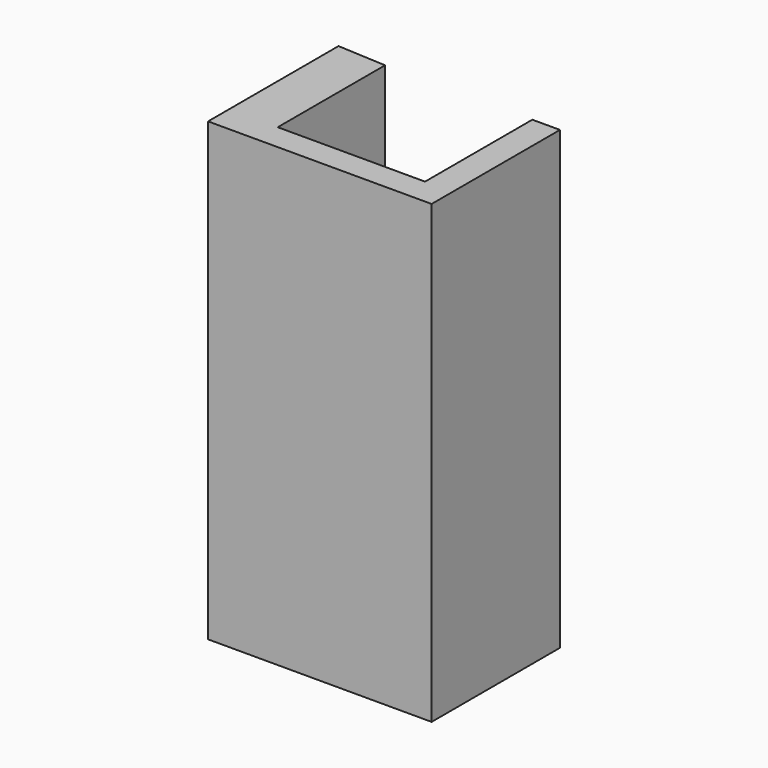
from build123d import *

# Parameters (mm, degrees)
F1_DEPTH = 155.702
F3_DEPTH = 25.4


with BuildPart() as f1:
    # F0 (on Top) → F1 (new body)
    with BuildSketch(Plane.XY):
        Polygon((-35.026107, 29.188428), (-51.641054, 30.086534), (-51.641054, -25.595998), (24.6979, -25.595998), (24.6979, 29.188428), (15.267792, 29.188428), (15.267792, -16.614946), (-35.026107, -16.614946), align=None)
    extrude(amount=F1_DEPTH)

    # F2 (on face) → F3 (join)
    with BuildSketch(Plane(origin=(15.267792, 0, 0), x_dir=(0, -1, 0), z_dir=(-1, 0, 0))):
        Polygon((0, 139.685988), (-13.539952, 120.63428), (-3.559254, 114.443869), (9.554391, 132.895732), align=None)
    extrude(amount=F3_DEPTH)


solid = f1.part
